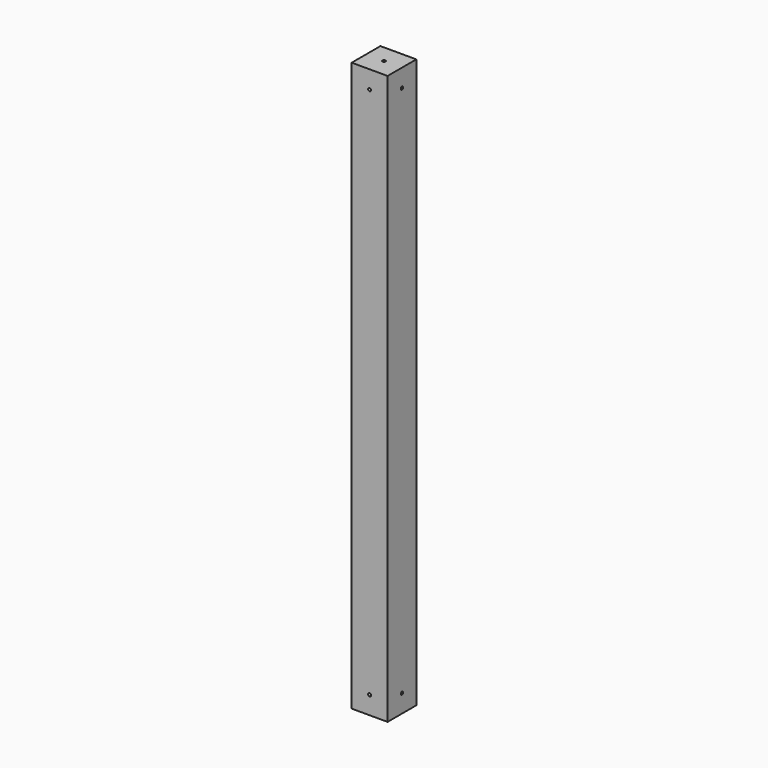
from build123d import *

# Parameters (mm, degrees)
F1_W           = 60
F1_H           = 60
F2_DEPTH       = 950
F7_D           = 5
F7_DEPTH       = 12
F7_TIP         = 1.5021515476
F7_ON_F4_D     = 5
F7_ON_F4_DEPTH = 12
F7_ON_F4_TIP   = 1.5021515476
F8_D           = 5
F8_ON_F5_D     = 5


with BuildPart() as f2:
    # F1 (on Top) → F2 (new body)
    with BuildSketch(Plane.XY):
        Rectangle(F1_W, F1_H)
    extrude(amount=F2_DEPTH)

    # F7
    with Locations(Plane.XY.offset(950)):
        with Locations((0, 0)):
            Hole(F7_D / 2, depth=F7_DEPTH)
            with Locations((0, 0, -(F7_DEPTH + F7_TIP / 2))):  # 118° drill point
                Cone(0, F7_D / 2, F7_TIP, mode=Mode.SUBTRACT)

    # F7 on F4
    with Locations(Plane(origin=(0, 0, 0), x_dir=(1, 0, 0), z_dir=(0, 0, -1))):
        with Locations((0, 0)):
            Hole(F7_ON_F4_D / 2, depth=F7_ON_F4_DEPTH)
            with Locations((0, 0, -(F7_ON_F4_DEPTH + F7_ON_F4_TIP / 2))):  # 118° drill point
                Cone(0, F7_ON_F4_D / 2, F7_ON_F4_TIP, mode=Mode.SUBTRACT)

    # F8 (through all)
    with Locations(Plane(origin=(0, 30, 0), x_dir=(-1, 0, 0), z_dir=(0, 1, 0))):
        with Locations((0, 920), (0, 30)):
            Hole(F8_D / 2)

    # F8 on F5 (through all)
    with Locations(Plane.YZ.offset(30)):
        with Locations((0, 920), (0, 30)):
            Hole(F8_ON_F5_D / 2)


solid = f2.part
